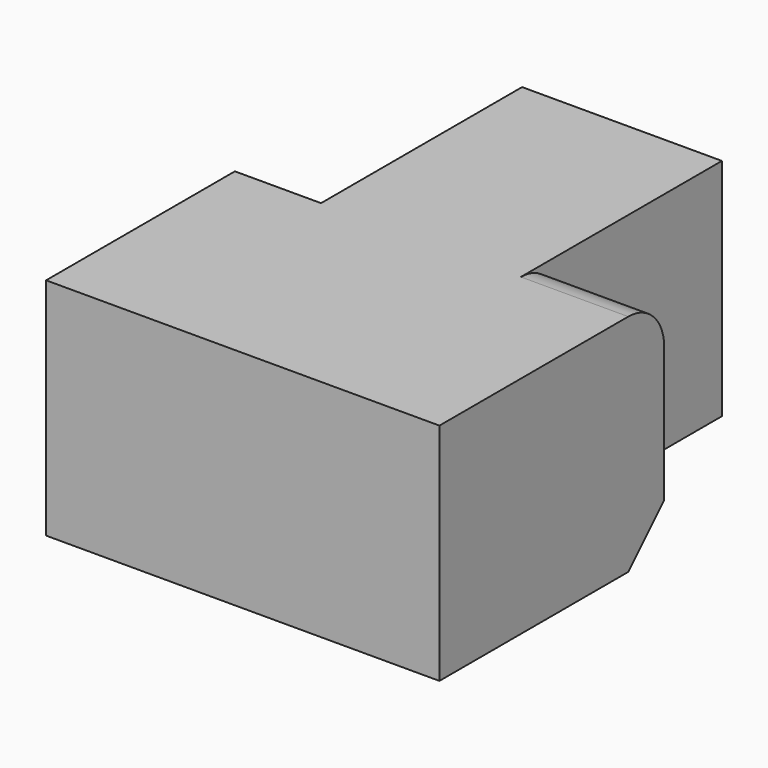
from build123d import *

# Parameters (mm, degrees)
F1_DEPTH = 25.4
F2_SIZE  = 5.08
F3_SIZE  = 5.08
F4_R     = 5.08
F5_SIZE  = 5.08
F6_SIZE  = 5.08


with BuildPart() as f1:
    # F0 (on Top) → F1 (new body)
    with BuildSketch(Plane.XY):
        Polygon((0, 31.75), (0, 0), (44.45, 0), (44.45, 31.75), (32.315474, 31.75), (32.315474, 60.153503), (21.024525, 60.153503), (9.733576, 60.153503), (9.733576, 31.75), align=None)
    extrude(amount=F1_DEPTH)

    # F2
    f2_edges = [f1.edges().sort_by_distance(p)[0] for p in [
        (4.866788, 31.75, 25.4),
    ]]
    chamfer(f2_edges, length=F2_SIZE)

    # F3
    f3_edges = [f1.edges().sort_by_distance(p)[0] for p in [
        (4.866788, 31.75, 0),
    ]]
    chamfer(f3_edges, length=F3_SIZE)

    # F4
    f4_edges = [f1.edges().sort_by_distance(p)[0] for p in [
        (38.382737, 31.75, 25.4),
    ]]
    fillet(f4_edges, radius=F4_R)

    # F5
    f5_edges = [f1.edges().sort_by_distance(p)[0] for p in [
        (38.382737, 31.75, 0),
    ]]
    chamfer(f5_edges, length=F5_SIZE)

    # F6
    f6_edges = [f1.edges().sort_by_distance(p)[0] for p in [
        (32.315474, 60.153503, 12.7),
        (21.024525, 60.153503, 25.4),
        (9.733576, 60.153503, 12.7),
        (21.024525, 60.153503, 0),
    ]]
    chamfer(f6_edges, length=F6_SIZE)


solid = f1.part
